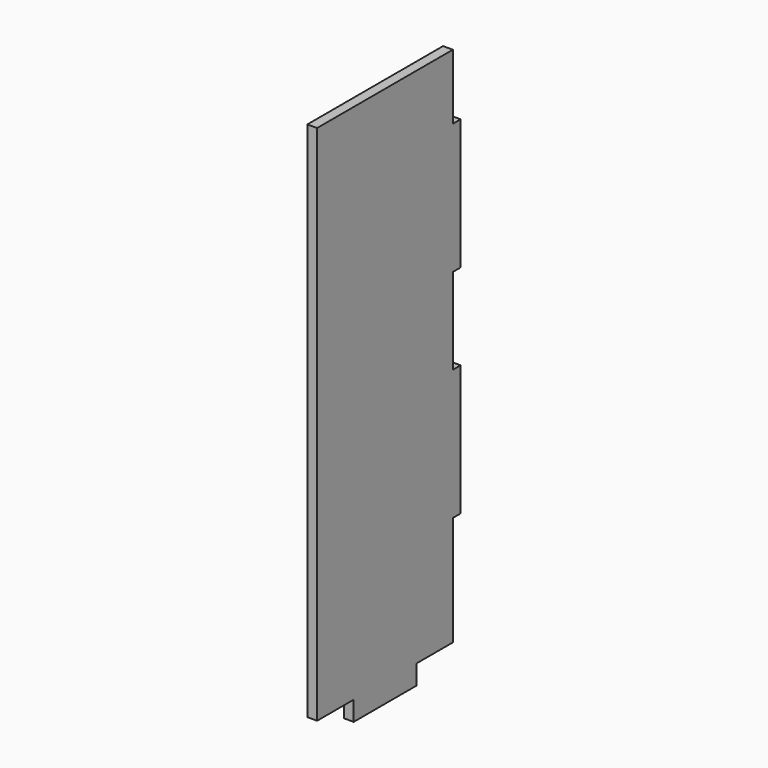
from build123d import *

# Parameters (mm, degrees)
F1_DEPTH = 3.75


with BuildPart() as f1:
    # F0 (on Right) → F1 (new body)
    with BuildSketch(Plane.YZ):
        Polygon((0, 208.051629), (0, 8.051629), (17.5, 8.051629), (17.5, 0.551629), (47.5, 0.551629), (47.5, 8.051629), (65, 8.051629), (65, 50.051629), (68.75, 50.051629), (68.75, 100.051629), (65, 100.051629), (65, 133.051629), (68.75, 133.051629), (68.75, 183.051629), (65, 183.051629), (65, 208.051629), align=None)
    extrude(amount=F1_DEPTH)


solid = f1.part
